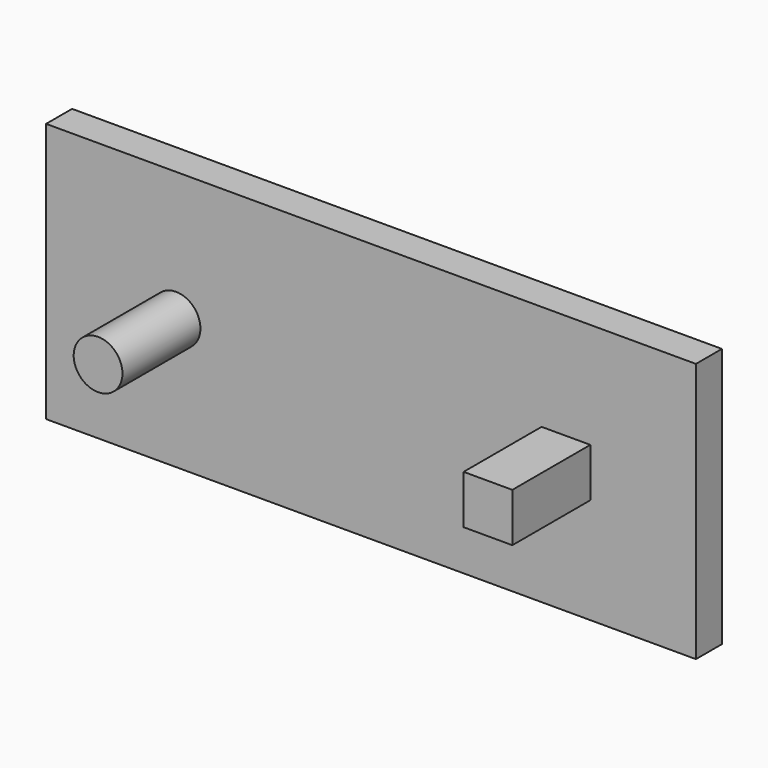
from build123d import *

# Parameters (mm, degrees)
F0_W     = 127
F0_H     = 50.8
F1_DEPTH = 6.35
F2_R     = 4.7625
F2_W     = 9.525
F2_H     = 9.525
F3_DEPTH = 19.05


with BuildPart() as f1:
    # F0 (on Front) → F1 (new body)
    with BuildSketch(Plane.XZ):
        with Locations((-21.913113, -4.328441)):
            Rectangle(F0_W, F0_H)
    extrude(amount=F1_DEPTH)

    # F2 (on face) → F3 (join)
    with BuildSketch(Plane.XZ.offset(6.35)):
        with Locations((-60.013113, -4.328441)):
            Circle(F2_R)
        with Locations((16.186887, -4.328441)):
            Rectangle(F2_W, F2_H)
    extrude(amount=F3_DEPTH)


solid = f1.part
